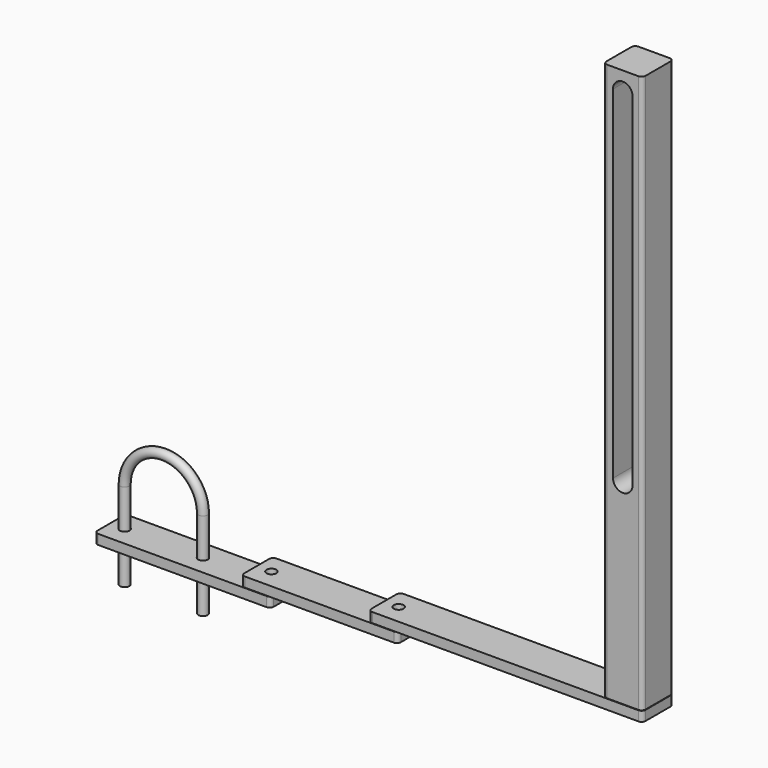
from build123d import *

# Parameters (mm, degrees)
F0_W      = 25.4
F0_H      = 361.95
F1_DEPTH  = 25.4
F2_R      = 6.35
F3_DEPTH  = 25.4
F5_R      = 3.175
F5_R_2    = 6.985
F6_DEPTH  = 6.35
F7_R      = 2.54
F9_R      = 3.175
F10_DEPTH = 6.35
F12_R     = 3.175
F13_DEPTH = 6.35
F16_R     = 3.048


with BuildPart() as f1:
    # F0 (on Front) → F1 (new body)
    with BuildSketch(Plane.XZ):
        with Locations((-12.7, 180.975)):
            Rectangle(F0_W, F0_H)
        with BuildLine():
            ThreePointArc((-19.05, 349.25), (-12.7, 355.6), (-6.35, 349.25))
            Line((-6.35, 349.25), (-6.35, 127))
            ThreePointArc((-6.35, 127), (-12.7, 120.65), (-19.05, 127))
            Line((-19.05, 127), (-19.05, 349.25))
        make_face(mode=Mode.SUBTRACT)
    extrude(amount=-F1_DEPTH)

    # F2 (on face) → F3 (cut)
    with BuildSketch(Plane(origin=(0, 0, 0), x_dir=(1, 0, 0), z_dir=(0, 0, -1))):
        with Locations((-12.7, -12.7)):
            Circle(F2_R)
    extrude(amount=-F3_DEPTH, mode=Mode.SUBTRACT)

    # F7
    f7_edges = [f1.edges().sort_by_distance(p)[0] for p in [
        (-25.4, 0, 180.975),
        (-25.4, 25.4, 180.975),
        (0, 0, 180.975),
        (0, 25.4, 180.975),
    ]]
    fillet(f7_edges, radius=F7_R)


with BuildPart() as f6:
    # F5 (on offset) → F6 (new body)
    with BuildSketch(Plane(origin=(0, 0, -0.254), x_dir=(1, 0, 0), z_dir=(0, 0, -1))):
        with BuildLine():
            ThreePointArc((0, -2.54), (-0.7439487758, -0.7439487758), (-2.54, 0))
            Line((-2.54, 0), (-175.26, 0))
            ThreePointArc((-175.26, 0), (-177.0560512242, -0.7439487758), (-177.8, -2.54))
            Line((-177.8, -2.54), (-177.8, -22.86))
            ThreePointArc((-177.8, -22.86), (-177.0560512242, -24.6560512242), (-175.26, -25.4))
            Line((-175.26, -25.4), (-2.54, -25.4))
            ThreePointArc((-2.54, -25.4), (-0.7439487758, -24.6560512242), (0, -22.86))
            Line((0, -22.86), (0, -2.54))
        make_face()
        with Locations((-168.275, -12.7)):
            Circle(F5_R, mode=Mode.SUBTRACT)
        with Locations((-12.7, -12.7)):
            Circle(F5_R_2, mode=Mode.SUBTRACT)
    extrude(amount=F6_DEPTH)


with BuildPart() as f10:
    # F9 (on offset) → F10 (new body)
    with BuildSketch(Plane(origin=(0, 0, -6.858), x_dir=(1, 0, 0), z_dir=(0, 0, -1))):
        with BuildLine():
            Line((-257.81, -25.4), (-161.29, -25.4))
            ThreePointArc((-161.29, -25.4), (-159.4939487758, -24.6560512242), (-158.75, -22.86))
            Line((-158.75, -22.86), (-158.75, -2.54))
            ThreePointArc((-158.75, -2.54), (-159.4939487758, -0.7439487758), (-161.29, 0))
            Line((-161.29, 0), (-257.81, 0))
            ThreePointArc((-257.81, 0), (-259.6060512242, -0.7439487758), (-260.35, -2.54))
            Line((-260.35, -2.54), (-260.35, -22.86))
            ThreePointArc((-260.35, -22.86), (-259.6060512242, -24.6560512242), (-257.81, -25.4))
        make_face()
        with Locations((-250.825, -12.7)):
            Circle(F9_R, mode=Mode.SUBTRACT)
        with Locations((-168.275, -12.7)):
            Circle(F9_R, mode=Mode.SUBTRACT)
    extrude(amount=F10_DEPTH)


with BuildPart() as f13:
    # F12 (on offset) → F13 (new body)
    with BuildSketch(Plane(origin=(0, 0, -13.462), x_dir=(1, 0, 0), z_dir=(0, 0, -1))):
        with BuildLine():
            Line((-353.06, -25.4), (-243.84, -25.4))
            ThreePointArc((-243.84, -25.4), (-242.0439487758, -24.6560512242), (-241.3, -22.86))
            Line((-241.3, -22.86), (-241.3, -2.54))
            ThreePointArc((-241.3, -2.54), (-242.0439487758, -0.7439487758), (-243.84, 0))
            Line((-243.84, 0), (-353.06, 0))
            ThreePointArc((-353.06, 0), (-354.8560512242, -0.7439487758), (-355.6, -2.54))
            Line((-355.6, -2.54), (-355.6, -22.86))
            ThreePointArc((-355.6, -22.86), (-354.8560512242, -24.6560512242), (-353.06, -25.4))
        make_face()
        with Locations((-346.075, -12.7)):
            Circle(F12_R, mode=Mode.SUBTRACT)
        with Locations((-295.275, -12.7)):
            Circle(F12_R, mode=Mode.SUBTRACT)
        with Locations((-250.825, -12.7)):
            Circle(F12_R, mode=Mode.SUBTRACT)
    extrude(amount=F13_DEPTH)


with BuildPart() as f17:
    # F17: sweep along a path in F15
    with BuildLine(Plane.XZ.offset(-12.7)) as f17_path:
        Line((-295.275, -45.212), (-295.275, 11.938))
        ThreePointArc((-295.275, 11.938), (-320.675, 37.338), (-346.075, 11.938))
        Line((-346.075, 11.938), (-346.075, -45.212))
    # F16 (on face) → F17 (sweep)
    with BuildSketch(Plane.XY.offset(-13.462)):
        with Locations((-295.275, 12.7)):
            Circle(F16_R)
    sweep(path=f17_path.line)


solid = Compound([f1.part, f6.part, f10.part, f13.part, f17.part])
